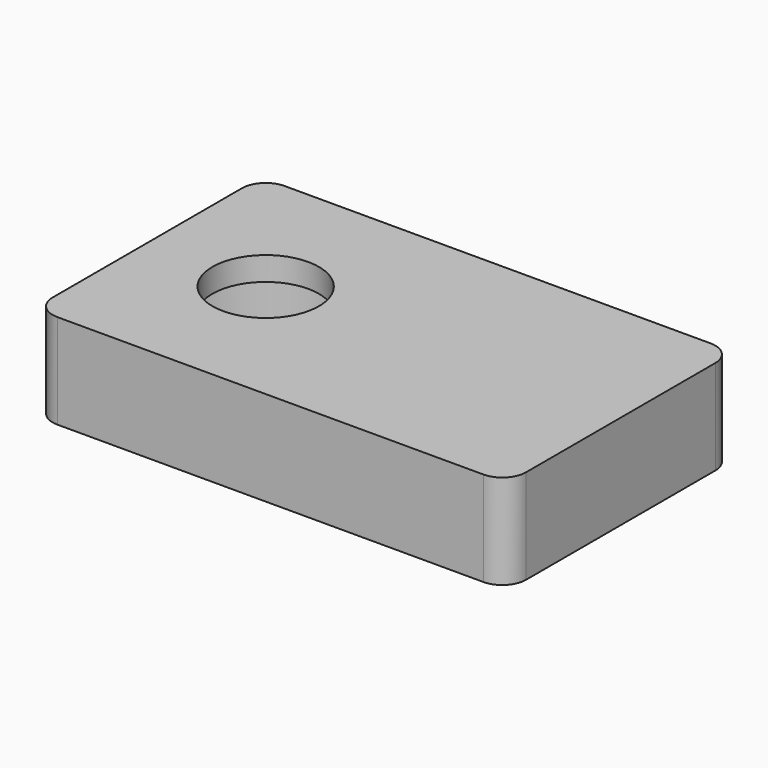
from build123d import *

# Parameters (mm, degrees)
F0_W           = 20
F0_H           = 12
F0_W_2         = 1
F0_H_2         = 0.6
F1_DEPTH       = 4
F2_D           = 4.5
F2_CBORE_D     = 8.25
F2_CBORE_DEPTH = 3
F3_R           = 1
F4_DEPTH       = 3.8


with BuildPart() as f1:
    # F0 (on Top) → F1 (new body)
    with BuildSketch(Plane.XY):
        Rectangle(F0_W, F0_H)
        with Locations((5, -2.5)):
            Rectangle(F0_W_2, F0_H_2, mode=Mode.SUBTRACT)
        with Locations((5, 2.5)):
            Rectangle(F0_W_2, F0_H_2, mode=Mode.SUBTRACT)
        with Locations((5, -2.5)):
            Rectangle(F0_W_2, F0_H_2)
        with Locations((5, 2.5)):
            Rectangle(F0_W_2, F0_H_2)
    extrude(amount=F1_DEPTH)

    # F2 (through all)
    with Locations(Plane(origin=(0, 0, 0), x_dir=(1, 0, 0), z_dir=(0, 0, -1))):
        with Locations((-5, 0)):
            CounterBoreHole(F2_D / 2, F2_CBORE_D / 2, F2_CBORE_DEPTH)

    # F3
    f3_edges = [f1.edges().sort_by_distance(p)[0] for p in [
        (-10, 6, 2),
        (10, 6, 2),
        (-10, -6, 2),
        (10, -6, 2),
    ]]
    fillet(f3_edges, radius=F3_R)

    # F0 (on Top) → F4 (cut)
    with BuildSketch(Plane.XY):
        with Locations((5, -2.5)):
            Rectangle(F0_W_2, F0_H_2)
        with Locations((5, 2.5)):
            Rectangle(F0_W_2, F0_H_2)
    extrude(amount=F4_DEPTH, mode=Mode.SUBTRACT)


solid = f1.part
